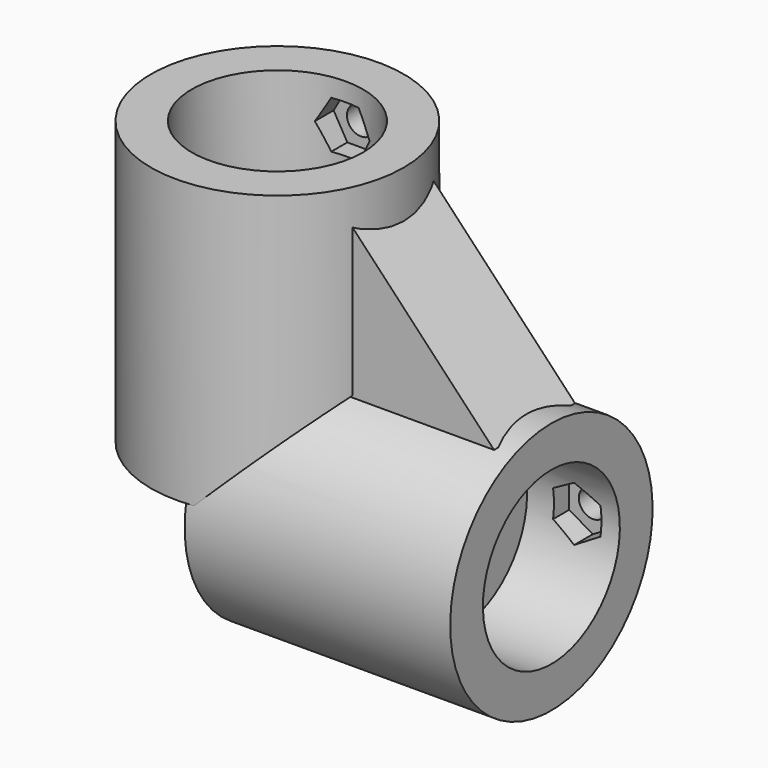
from build123d import *

# Parameters (mm, degrees)
SKETCH006_R             = 15
PAD001_DEPTH            = 31.5
SKETCH007_R             = 10.15
POCKET005_DEPTH         = 11
SKETCH008_R             = 6.15
POCKET006_DEPTH         = 2.5
SKETCH009_R             = 14
POCKET007_DEPTH         = 15
SKETCH010_R             = 3.5
POCKET008_DEPTH         = 3
SKETCH011_R             = 1.6
POCKET009_DEPTH         = 3
SKETCH_R                = 13
POCKET_DEPTH            = 15
PAD_DEPTH               = 6
PAD_DEPTH_BACK          = 6
SKETCH020_R             = 1.67
POCKET016_DEPTH         = 16
POCKET017_DEPTH         = 12.4
BODY001_PLACEMENT_ANGLE = 90
SKETCH016_R             = 15
PAD002_DEPTH            = 33.5
SKETCH017_R             = 10.15
POCKET011_DEPTH         = 11
SKETCH012_R             = 6.15
POCKET010_DEPTH         = 2.5
SKETCH014_R             = 14
POCKET015_DEPTH         = 17
SKETCH013_R             = 3.5
POCKET014_DEPTH         = 3
SKETCH015_R             = 1.6
POCKET012_DEPTH         = 3
SKETCH018_R             = 15
POCKET013_DEPTH         = 16
SKETCH022_R             = 1.67
POCKET018_DEPTH         = 17
POCKET019_DEPTH         = 12.4
BODY002_PLACEMENT_ANGLE = 180


with BuildPart() as body001:
    # Sketch006 → Pad001 (new body)
    with BuildSketch(Plane.XY):
        Circle(SKETCH006_R)
    extrude(amount=PAD001_DEPTH)

    # Sketch007 (on Face2 of Pad001) → Pocket005 (cut)
    with BuildSketch(Plane(origin=(0, 0, 0), x_dir=(1, 0, 0), z_dir=(0, 0, -1))):
        Circle(SKETCH007_R)
    extrude(amount=-POCKET005_DEPTH, mode=Mode.SUBTRACT)

    # Sketch008 (on Face5 of Pocket005) → Pocket006 (cut)
    with BuildSketch(Plane(origin=(0, 0, 11), x_dir=(1, 0, 0), z_dir=(0, 0, -1))):
        Circle(SKETCH008_R)
    extrude(amount=-POCKET006_DEPTH, mode=Mode.SUBTRACT)

    # Sketch009 (on Face3 of Pocket006) → Pocket007 (cut)
    with BuildSketch(Plane.XY.offset(31.5)):
        Circle(SKETCH009_R)
    extrude(amount=-POCKET007_DEPTH, mode=Mode.SUBTRACT)

    # Sketch010 (on Face9 of Pocket007) → Pocket008 (cut)
    with BuildSketch(Plane(origin=(0, 0, 13.5), x_dir=(1, 0, 0), z_dir=(0, 0, -1))):
        Circle(SKETCH010_R)
    extrude(amount=-POCKET008_DEPTH, mode=Mode.SUBTRACT)

    # Sketch011 (on Face7 of Pocket008) → Pocket009 (cut)
    with BuildSketch(Plane.XY.offset(16.5)):
        with Locations((-7.8, 0)):
            Circle(SKETCH011_R)
    extrude(amount=-POCKET009_DEPTH, mode=Mode.SUBTRACT)

    # Sketch → Pocket (cut)
    with BuildSketch(Plane.YZ):
        with Locations((0, 31.5)):
            Circle(SKETCH_R)
    extrude(amount=POCKET_DEPTH, mode=Mode.SUBTRACT)

    # Sketch019 → Pad (join, two sides)
    with BuildSketch(Plane.XZ) as pad_sk:
        Polygon((14, 2), (32, 19), (14, 19), align=None)
    extrude(amount=PAD_DEPTH)
    extrude(pad_sk.sketch, amount=-PAD_DEPTH_BACK)

    # Sketch020 → Pocket016 (cut)
    with BuildSketch(Plane.XZ):
        with Locations((0, 5)):
            Circle(SKETCH020_R)
    extrude(amount=-POCKET016_DEPTH, mode=Mode.SUBTRACT)

    # Sketch021 → Pocket017 (cut)
    with BuildSketch(Plane.XZ):
        Polygon((3.25, 5), (1.625, 7.814583), (-1.625, 7.814583), (-3.25, 5), (-1.625, 2.185417), (1.625, 2.185417), align=None)
    extrude(amount=-POCKET017_DEPTH, mode=Mode.SUBTRACT)


with BuildPart() as body001_1:
    # Body001 placement: moved
    add(body001.part.moved(Location((35, 0, 46))).rotate(Axis((35, 0, 46), (0, -1, 0)), BODY001_PLACEMENT_ANGLE))


with BuildPart() as body002:
    # Sketch016 → Pad002 (new body)
    with BuildSketch(Plane.XY):
        Circle(SKETCH016_R)
    extrude(amount=PAD002_DEPTH)

    # Sketch017 (on Face2 of Pad002) → Pocket011 (cut)
    with BuildSketch(Plane(origin=(0, 0, 0), x_dir=(1, 0, 0), z_dir=(0, 0, -1))):
        Circle(SKETCH017_R)
    extrude(amount=-POCKET011_DEPTH, mode=Mode.SUBTRACT)

    # Sketch012 (on Face5 of Pocket011) → Pocket010 (cut)
    with BuildSketch(Plane(origin=(0, 0, 11), x_dir=(1, 0, 0), z_dir=(0, 0, -1))):
        Circle(SKETCH012_R)
    extrude(amount=-POCKET010_DEPTH, mode=Mode.SUBTRACT)

    # Sketch014 (on Face3 of Pocket010) → Pocket015 (cut)
    with BuildSketch(Plane.XY.offset(33.5)):
        Circle(SKETCH014_R)
    extrude(amount=-POCKET015_DEPTH, mode=Mode.SUBTRACT)

    # Sketch013 (on Face9 of Pocket015) → Pocket014 (cut)
    with BuildSketch(Plane(origin=(0, 0, 13.5), x_dir=(1, 0, 0), z_dir=(0, 0, -1))):
        Circle(SKETCH013_R)
    extrude(amount=-POCKET014_DEPTH, mode=Mode.SUBTRACT)

    # Sketch015 (on Face7 of Pocket014) → Pocket012 (cut)
    with BuildSketch(Plane.XY.offset(16.5)):
        with Locations((-7.8, 0)):
            Circle(SKETCH015_R)
    extrude(amount=-POCKET012_DEPTH, mode=Mode.SUBTRACT)

    # Sketch018 → Pocket013 (cut)
    with BuildSketch(Plane.YZ):
        with Locations((0, 35.5)):
            Circle(SKETCH018_R)
    extrude(amount=POCKET013_DEPTH, mode=Mode.SUBTRACT)

    # Sketch022 → Pocket018 (cut)
    with BuildSketch(Plane.XZ):
        with Locations((0, 5)):
            Circle(SKETCH022_R)
    extrude(amount=POCKET018_DEPTH, mode=Mode.SUBTRACT)

    # Sketch023 → Pocket019 (cut)
    with BuildSketch(Plane.XZ):
        Polygon((1.625, 2.185417), (3.25, 5), (1.625, 7.814583), (-1.625, 7.814583), (-3.25, 5), (-1.625, 2.185417), align=None)
    extrude(amount=POCKET019_DEPTH, mode=Mode.SUBTRACT)


with BuildPart() as body002_1:
    # Body002 placement: moved
    add(body002.part.moved(Location((2.494866, 0.006782, 82))).rotate(Axis((2.494866, 0.006782, 82), (1, 0, 0)), BODY002_PLACEMENT_ANGLE))


solid = Compound([body001_1.part, body002_1.part])
